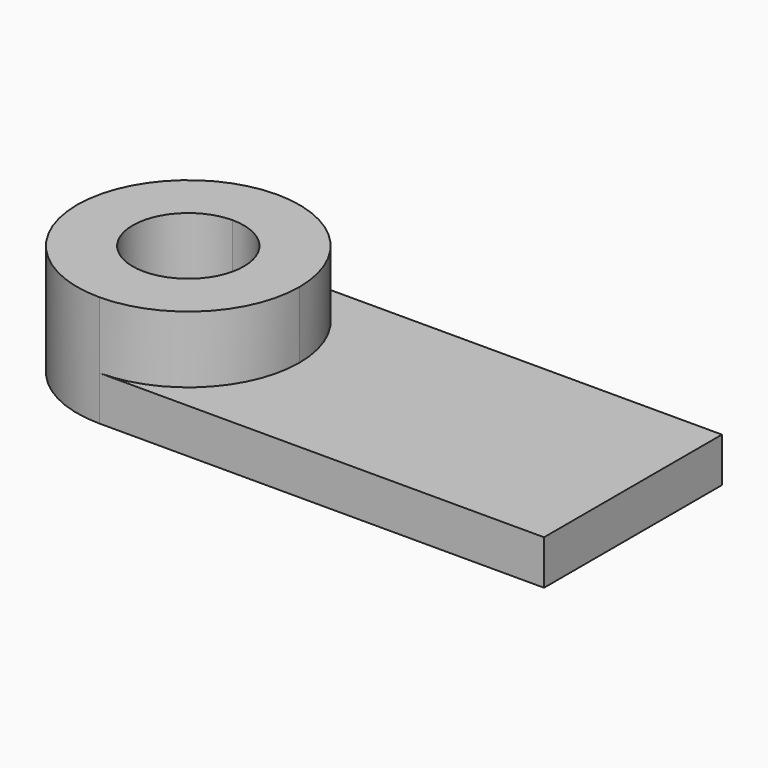
from build123d import *

# Parameters (mm, degrees)
F1_DEPTH = 10
F3_DEPTH = 25


with BuildPart() as f1:
    # F0 (on Top) → F1 (new body)
    with BuildSketch(Plane.XY):
        with BuildLine():
            Line((50, -25), (50, 25))
            Line((50, 25), (-50, 25))
            ThreePointArc((-50, 25), (-32.32233, 17.67767), (-25, 0))
            ThreePointArc((-25, 0), (-32.32233, -17.67767), (-50, -25))
            Line((-50, -25), (50, -25))
        make_face()
        with BuildLine():
            Line((-50, 12.5), (-50, 25))
            ThreePointArc((-50, 25), (-75, 0), (-50, -25))
            Line((-50, -25), (-50, -12.5))
            ThreePointArc((-50, -12.5), (-62.5, 0), (-50, 12.5))
        make_face()
        with BuildLine():
            Line((50, -25), (50, 25))
            Line((50, 25), (-50, 25))
            ThreePointArc((-50, 25), (-32.32233, 17.67767), (-25, 0))
            ThreePointArc((-25, 0), (-32.32233, -17.67767), (-50, -25))
            Line((-50, -25), (50, -25))
        make_face()
    extrude(amount=F1_DEPTH)

    # F0 (on Top) → F3 (join)
    with BuildSketch(Plane.XY):
        with BuildLine():
            ThreePointArc((-25, 0), (-32.32233, 17.67767), (-50, 25))
            Line((-50, 25), (-50, 12.5))
            ThreePointArc((-50, 12.5), (-41.161165, 8.838835), (-37.5, 0))
            ThreePointArc((-37.5, 0), (-41.161165, -8.838835), (-50, -12.5))
            Line((-50, -12.5), (-50, -25))
            ThreePointArc((-50, -25), (-32.32233, -17.67767), (-25, 0))
        make_face()
        with BuildLine():
            Line((-50, 12.5), (-50, 25))
            ThreePointArc((-50, 25), (-75, 0), (-50, -25))
            Line((-50, -25), (-50, -12.5))
            ThreePointArc((-50, -12.5), (-62.5, 0), (-50, 12.5))
        make_face()
    extrude(amount=F3_DEPTH)


solid = f1.part
